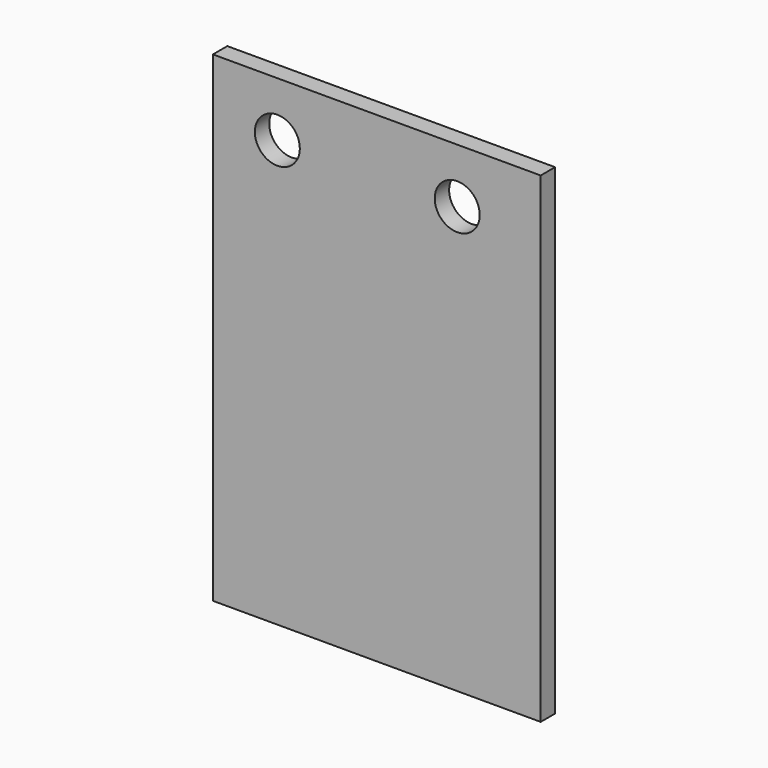
from build123d import *

# Parameters (mm, degrees)
F0_W     = 57.848958
F0_H     = 84.902698
F0_R     = 3.96875
F1_DEPTH = 3.175


with BuildPart() as f1:
    # F0 (on Front) → F1 (new body)
    with BuildSketch(Plane.XZ):
        with Locations((17.556151, -32.809856)):
            Rectangle(F0_W, F0_H)
        Circle(F0_R, mode=Mode.SUBTRACT)
        with Locations((31.75, 0)):
            Circle(F0_R, mode=Mode.SUBTRACT)
    extrude(amount=F1_DEPTH)


solid = f1.part
